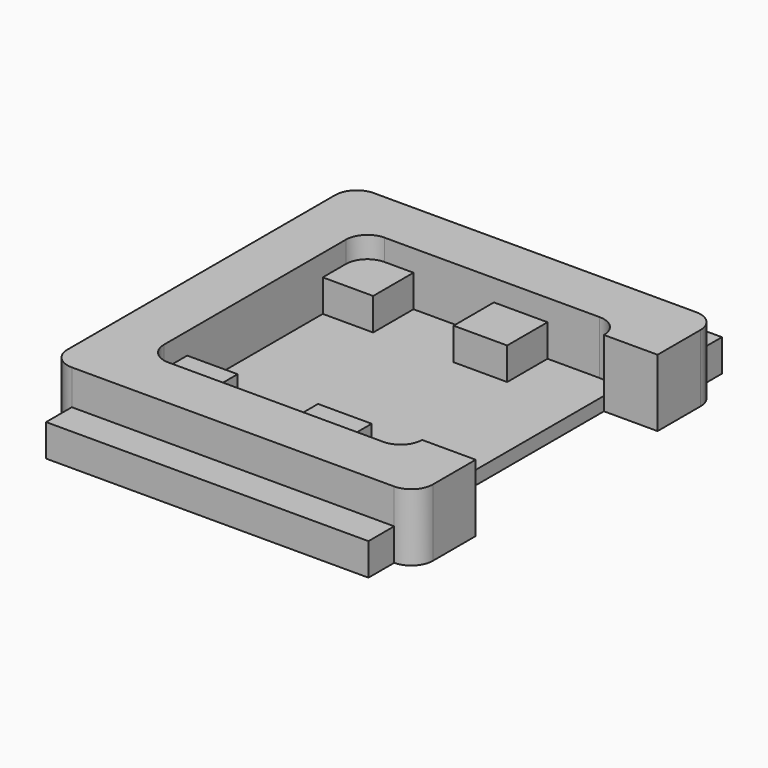
from build123d import *

# Parameters (mm, degrees)
F0_W     = 5
F0_H     = 4.7
F1_DEPTH = 1.27
F2_DEPTH = 3
F4_DEPTH = 2
F5_W     = 30.062
F5_H     = 3
F6_DEPTH = 3
F7_W     = 30.062
F7_H     = 3
F8_DEPTH = 3


with BuildPart() as f1:
    # F0 (on Top) → F1 (new body)
    with BuildSketch(Plane.XY):
        with BuildLine():
            ThreePointArc((12.031, -10.6), (11.4452135624, -12.0142135624), (10.031, -12.6))
            Line((10.031, -12.6), (5.169, -12.6))
            Line((5.169, -12.6), (0.169, -12.6))
            Line((0.169, -12.6), (-7.331, -12.6))
            Line((-7.331, -12.6), (-10.031, -12.6))
            ThreePointArc((-10.031, -12.6), (-11.4452135624, -12.0142135624), (-12.031, -10.6))
            Line((-12.031, -10.6), (-12.031, -7.9))
            Line((-12.031, -7.9), (-12.031, 7.9))
            Line((-12.031, 7.9), (-12.031, 10.6))
            ThreePointArc((-12.031, 10.6), (-11.4452135624, 12.0142135624), (-10.031, 12.6))
            Line((-10.031, 12.6), (-7.331, 12.6))
            Line((-7.331, 12.6), (0.169, 12.6))
            Line((0.169, 12.6), (5.169, 12.6))
            Line((5.169, 12.6), (10.031, 12.6))
            ThreePointArc((10.031, 12.6), (11.4452135624, 12.0142135624), (12.031, 10.6))
            Line((12.031, 10.6), (17.031, 10.6))
            Line((17.031, 10.6), (17.031, 15.6))
            ThreePointArc((17.031, 15.6), (16.4452135624, 17.0142135624), (15.031, 17.6))
            Line((15.031, 17.6), (-15.031, 17.6))
            ThreePointArc((-15.031, 17.6), (-16.4452135624, 17.0142135624), (-17.031, 15.6))
            Line((-17.031, 15.6), (-17.031, -15.6))
            ThreePointArc((-17.031, -15.6), (-16.4452135624, -17.0142135624), (-15.031, -17.6))
            Line((-15.031, -17.6), (15.031, -17.6))
            ThreePointArc((15.031, -17.6), (16.4452135624, -17.0142135624), (17.031, -15.6))
            Line((17.031, -15.6), (17.031, -10.6))
            Line((17.031, -10.6), (12.031, -10.6))
        make_face()
        with BuildLine():
            Line((5.169, -12.6), (10.031, -12.6))
            ThreePointArc((10.031, -12.6), (11.4452135624, -12.0142135624), (12.031, -10.6))
            Line((12.031, -10.6), (12.031, -10.4))
            Line((12.031, -10.4), (12.031, 10.4))
            Line((12.031, 10.4), (12.031, 10.6))
            ThreePointArc((12.031, 10.6), (11.4452135624, 12.0142135624), (10.031, 12.6))
            Line((10.031, 12.6), (5.169, 12.6))
            Line((5.169, 12.6), (5.169, 7.9))
            Line((5.169, 7.9), (0.169, 7.9))
            Line((0.169, 7.9), (0.169, 12.6))
            Line((0.169, 12.6), (-7.331, 12.6))
            Line((-7.331, 12.6), (-7.331, 7.9))
            Line((-7.331, 7.9), (-12.031, 7.9))
            Line((-12.031, 7.9), (-12.031, -7.9))
            Line((-12.031, -7.9), (-7.331, -7.9))
            Line((-7.331, -7.9), (-7.331, -12.6))
            Line((-7.331, -12.6), (0.169, -12.6))
            Line((0.169, -12.6), (0.169, -7.9))
            Line((0.169, -7.9), (5.169, -7.9))
            Line((5.169, -7.9), (5.169, -12.6))
        make_face()
        with BuildLine():
            Line((-12.031, 10.6), (-12.031, 7.9))
            Line((-12.031, 7.9), (-7.331, 7.9))
            Line((-7.331, 7.9), (-7.331, 12.6))
            Line((-7.331, 12.6), (-10.031, 12.6))
            ThreePointArc((-10.031, 12.6), (-11.4452135624, 12.0142135624), (-12.031, 10.6))
        make_face()
        with Locations((2.669, 10.25)):
            Rectangle(F0_W, F0_H)
        with Locations((2.669, -10.25)):
            Rectangle(F0_W, F0_H)
        with BuildLine():
            Line((-10.031, -12.6), (-7.331, -12.6))
            Line((-7.331, -12.6), (-7.331, -7.9))
            Line((-7.331, -7.9), (-12.031, -7.9))
            Line((-12.031, -7.9), (-12.031, -10.6))
            ThreePointArc((-12.031, -10.6), (-11.4452135624, -12.0142135624), (-10.031, -12.6))
        make_face()
    extrude(amount=-F1_DEPTH)

    # F0 (on Top) → F2 (join)
    with BuildSketch(Plane.XY):
        with BuildLine():
            ThreePointArc((12.031, -10.6), (11.4452135624, -12.0142135624), (10.031, -12.6))
            Line((10.031, -12.6), (5.169, -12.6))
            Line((5.169, -12.6), (0.169, -12.6))
            Line((0.169, -12.6), (-7.331, -12.6))
            Line((-7.331, -12.6), (-10.031, -12.6))
            ThreePointArc((-10.031, -12.6), (-11.4452135624, -12.0142135624), (-12.031, -10.6))
            Line((-12.031, -10.6), (-12.031, -7.9))
            Line((-12.031, -7.9), (-12.031, 7.9))
            Line((-12.031, 7.9), (-12.031, 10.6))
            ThreePointArc((-12.031, 10.6), (-11.4452135624, 12.0142135624), (-10.031, 12.6))
            Line((-10.031, 12.6), (-7.331, 12.6))
            Line((-7.331, 12.6), (0.169, 12.6))
            Line((0.169, 12.6), (5.169, 12.6))
            Line((5.169, 12.6), (10.031, 12.6))
            ThreePointArc((10.031, 12.6), (11.4452135624, 12.0142135624), (12.031, 10.6))
            Line((12.031, 10.6), (17.031, 10.6))
            Line((17.031, 10.6), (17.031, 15.6))
            ThreePointArc((17.031, 15.6), (16.4452135624, 17.0142135624), (15.031, 17.6))
            Line((15.031, 17.6), (-15.031, 17.6))
            ThreePointArc((-15.031, 17.6), (-16.4452135624, 17.0142135624), (-17.031, 15.6))
            Line((-17.031, 15.6), (-17.031, -15.6))
            ThreePointArc((-17.031, -15.6), (-16.4452135624, -17.0142135624), (-15.031, -17.6))
            Line((-15.031, -17.6), (15.031, -17.6))
            ThreePointArc((15.031, -17.6), (16.4452135624, -17.0142135624), (17.031, -15.6))
            Line((17.031, -15.6), (17.031, -10.6))
            Line((17.031, -10.6), (12.031, -10.6))
        make_face()
        with BuildLine():
            Line((-12.031, 10.6), (-12.031, 7.9))
            Line((-12.031, 7.9), (-7.331, 7.9))
            Line((-7.331, 7.9), (-7.331, 12.6))
            Line((-7.331, 12.6), (-10.031, 12.6))
            ThreePointArc((-10.031, 12.6), (-11.4452135624, 12.0142135624), (-12.031, 10.6))
        make_face()
        with Locations((2.669, 10.25)):
            Rectangle(F0_W, F0_H)
        with Locations((2.669, -10.25)):
            Rectangle(F0_W, F0_H)
        with BuildLine():
            Line((-10.031, -12.6), (-7.331, -12.6))
            Line((-7.331, -12.6), (-7.331, -7.9))
            Line((-7.331, -7.9), (-12.031, -7.9))
            Line((-12.031, -7.9), (-12.031, -10.6))
            ThreePointArc((-12.031, -10.6), (-11.4452135624, -12.0142135624), (-10.031, -12.6))
        make_face()
    extrude(amount=F2_DEPTH)

    # F3 (on face) → F4 (join)
    with BuildSketch(Plane.XY.offset(3)):
        with BuildLine():
            ThreePointArc((-12.031, 10.6), (-11.4452135624, 12.0142135624), (-10.031, 12.6))
            Line((-10.031, 12.6), (-7.331, 12.6))
            Line((-7.331, 12.6), (0.169, 12.6))
            Line((0.169, 12.6), (5.169, 12.6))
            Line((5.169, 12.6), (10.031, 12.6))
            ThreePointArc((10.031, 12.6), (11.4452135624, 12.0142135624), (12.031, 10.6))
            Line((12.031, 10.6), (17.031, 10.6))
            Line((17.031, 10.6), (17.031, 15.6))
            ThreePointArc((17.031, 15.6), (16.4452135624, 17.0142135624), (15.031, 17.6))
            Line((15.031, 17.6), (-15.031, 17.6))
            ThreePointArc((-15.031, 17.6), (-16.4452135624, 17.0142135624), (-17.031, 15.6))
            Line((-17.031, 15.6), (-17.031, -15.6))
            ThreePointArc((-17.031, -15.6), (-16.4452135624, -17.0142135624), (-15.031, -17.6))
            Line((-15.031, -17.6), (15.031, -17.6))
            ThreePointArc((15.031, -17.6), (16.4452135624, -17.0142135624), (17.031, -15.6))
            Line((17.031, -15.6), (17.031, -10.6))
            Line((17.031, -10.6), (12.031, -10.6))
            ThreePointArc((12.031, -10.6), (11.4452135624, -12.0142135624), (10.031, -12.6))
            Line((10.031, -12.6), (5.169, -12.6))
            Line((5.169, -12.6), (0.169, -12.6))
            Line((0.169, -12.6), (-7.331, -12.6))
            Line((-7.331, -12.6), (-10.031, -12.6))
            ThreePointArc((-10.031, -12.6), (-11.4452135624, -12.0142135624), (-12.031, -10.6))
            Line((-12.031, -10.6), (-12.031, -7.9))
            Line((-12.031, -7.9), (-12.031, 7.9))
            Line((-12.031, 7.9), (-12.031, 10.6))
        make_face()
    extrude(amount=F4_DEPTH)

    # F5 (on face) → F6 (join)
    with BuildSketch(Plane(origin=(0, 17.6, 0), x_dir=(-1, 0, 0), z_dir=(0, 1, 0))):
        with Locations((0, 0.23)):
            Rectangle(F5_W, F5_H)
    extrude(amount=F6_DEPTH)

    # F7 (on face) → F8 (join)
    with BuildSketch(Plane.XZ.offset(17.6)):
        with Locations((0, 0.23)):
            Rectangle(F7_W, F7_H)
    extrude(amount=F8_DEPTH)


solid = f1.part
